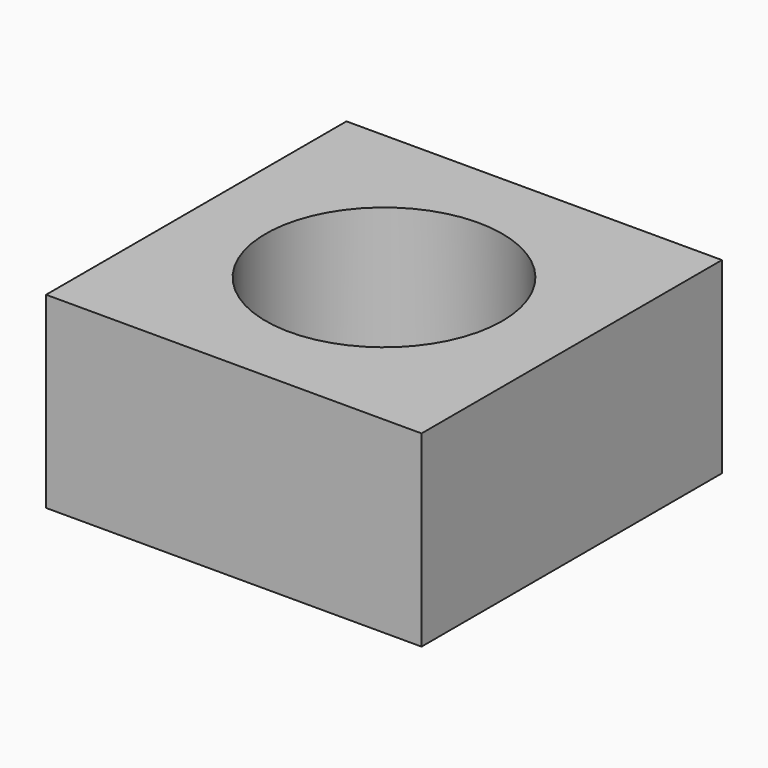
from build123d import *

# Parameters (mm, degrees)
CYLINDER035_R     = 4
CYLINDER035_DEPTH = 10
BOX014_W          = 12.7
BOX014_H          = 12.7
BOX014_DEPTH      = 6.35


with BuildPart() as cylinder035:
    # Cylinder035 → Cylinder035 (new body)
    with BuildSketch(Plane(origin=(6.35, 6.35, 0), x_dir=(1, 0, 0), z_dir=(0, 0, 1))):
        Circle(CYLINDER035_R)
    extrude(amount=CYLINDER035_DEPTH)


with BuildPart() as m8_nut001:
    # Box014 → Box014 (new body)
    with BuildSketch(Plane.XY):
        with Locations((6.35, 6.35)):
            Rectangle(BOX014_W, BOX014_H)
    extrude(amount=BOX014_DEPTH)

    # Cut012: cut Cylinder035
    add(cylinder035.part, mode=Mode.SUBTRACT)


with BuildPart() as m8_nut001_1:
    # Cut012 placement: moved
    add(m8_nut001.part.moved(Location((-6.35, -6.35, 0))))


solid = m8_nut001_1.part
